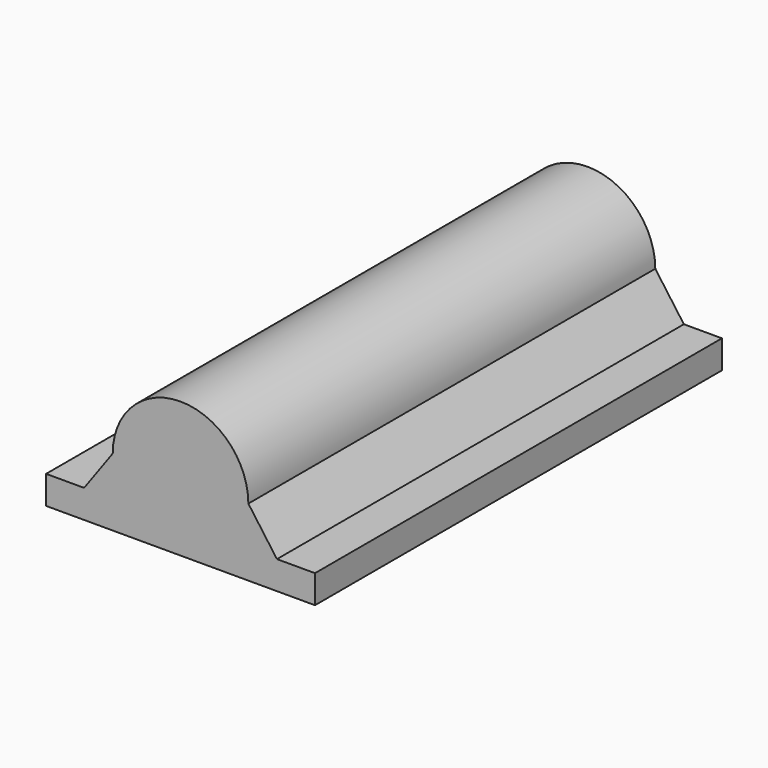
from build123d import *

# Parameters (mm, degrees)
F1_DEPTH = 75


with BuildPart() as f1:
    # F0 (on Front) → F1 (new body)
    with BuildSketch(Plane.XZ):
        with BuildLine():
            ThreePointArc((8.1205022937, -5.8358754697), (9.5185351535, -3.0655323406), (10, 0))
            ThreePointArc((10, 0), (0, 10), (-10, 0))
            ThreePointArc((-10, 0), (-9.5185351535, -3.0655323406), (-8.1205022937, -5.8358754697))
            Line((-8.1205022937, -5.8358754697), (0, -5.8358754697))
            Line((0, -5.8358754697), (8.1205022937, -5.8358754697))
        make_face()
        with BuildLine():
            Line((14.2145449562, -5.8358754697), (10, 0))
            ThreePointArc((10, 0), (9.5185351535, -3.0655323406), (8.1205022937, -5.8358754697))
            Line((8.1205022937, -5.8358754697), (14.2145449562, -5.8358754697))
        make_face()
        with BuildLine():
            ThreePointArc((-8.1205022937, -5.8358754697), (-9.5185351535, -3.0655323406), (-10, 0))
            Line((-10, 0), (-14.2145449562, -5.8358754697))
            Line((-14.2145449562, -5.8358754697), (-8.1205022937, -5.8358754697))
        make_face()
        with BuildLine():
            Line((14.2145449562, -5.8358754697), (8.1205022937, -5.8358754697))
            ThreePointArc((8.1205022937, -5.8358754697), (4.562962048, -8.89827946), (0, -10))
            Line((0, -10), (19.8257860861, -10))
            Line((19.8257860861, -10), (19.8257860861, -5.8358754697))
            Line((19.8257860861, -5.8358754697), (14.2145449562, -5.8358754697))
        make_face()
        with BuildLine():
            ThreePointArc((0, -10), (4.562962048, -8.89827946), (8.1205022937, -5.8358754697))
            Line((8.1205022937, -5.8358754697), (0, -5.8358754697))
            Line((0, -5.8358754697), (0, -10))
        make_face()
        with BuildLine():
            Line((0, -5.8358754697), (-8.1205022937, -5.8358754697))
            ThreePointArc((-8.1205022937, -5.8358754697), (-4.562962048, -8.89827946), (0, -10))
            Line((0, -10), (0, -5.8358754697))
        make_face()
        with BuildLine():
            ThreePointArc((0, -10), (-4.562962048, -8.89827946), (-8.1205022937, -5.8358754697))
            Line((-8.1205022937, -5.8358754697), (-14.2145449562, -5.8358754697))
            Line((-14.2145449562, -5.8358754697), (-19.8257860861, -5.8358754697))
            Line((-19.8257860861, -5.8358754697), (-19.8257860861, -10))
            Line((-19.8257860861, -10), (0, -10))
        make_face()
    extrude(amount=F1_DEPTH)


solid = f1.part
